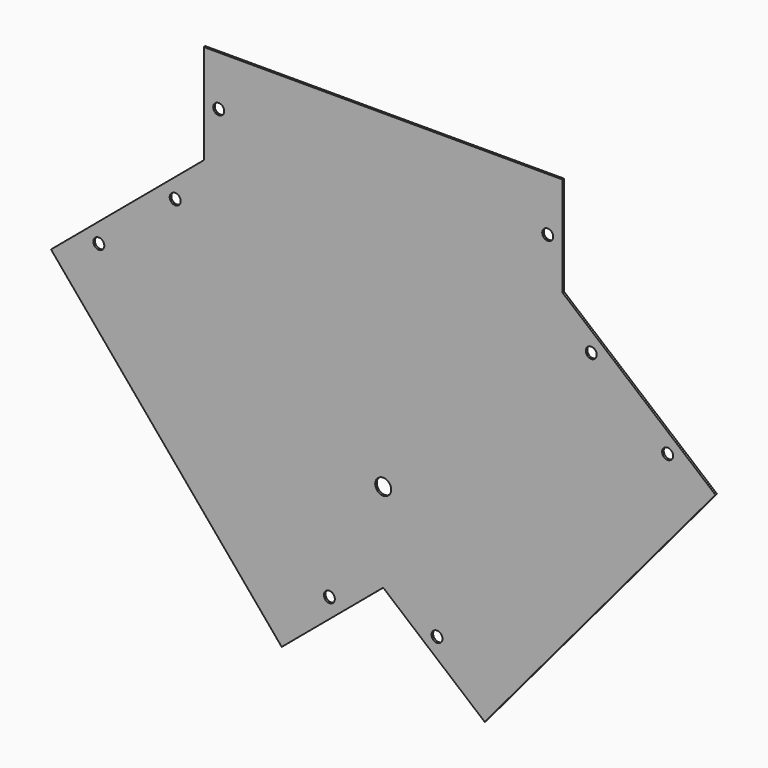
from build123d import *

# Parameters (mm, degrees)
F0_R     = 5.5
F0_R_2   = 8
F1_DEPTH = 2


with BuildPart() as f1:
    # F0 (on Front) → F1 (new body)
    with BuildSketch(Plane.XZ):
        Polygon((180, 0), (0, 0), (-180, 0), (-180, -100), (-333.208889, -228.557522), (-101.805349, -504.333521), (0, -418.908691), (101.805349, -504.333521), (333.208889, -228.557522), (180, -100), align=None)
        with Locations((-53.99383, -444.633784)):
            Circle(F0_R, mode=Mode.SUBTRACT)
        with Locations((53.99383, -444.633784)):
            Circle(F0_R, mode=Mode.SUBTRACT)
        with Locations((0, -329.746472)):
            Circle(F0_R_2, mode=Mode.SUBTRACT)
        with Locations((-285.264852, -207.908808)):
            Circle(F0_R, mode=Mode.SUBTRACT)
        with Locations((-208.660408, -143.630047)):
            Circle(F0_R, mode=Mode.SUBTRACT)
        with Locations((-165, -50)):
            Circle(F0_R, mode=Mode.SUBTRACT)
        with Locations((285.264852, -207.908808)):
            Circle(F0_R, mode=Mode.SUBTRACT)
        with Locations((208.660408, -143.630047)):
            Circle(F0_R, mode=Mode.SUBTRACT)
        with Locations((165, -53.497307)):
            Circle(F0_R, mode=Mode.SUBTRACT)
    extrude(amount=-F1_DEPTH)


solid = f1.part
